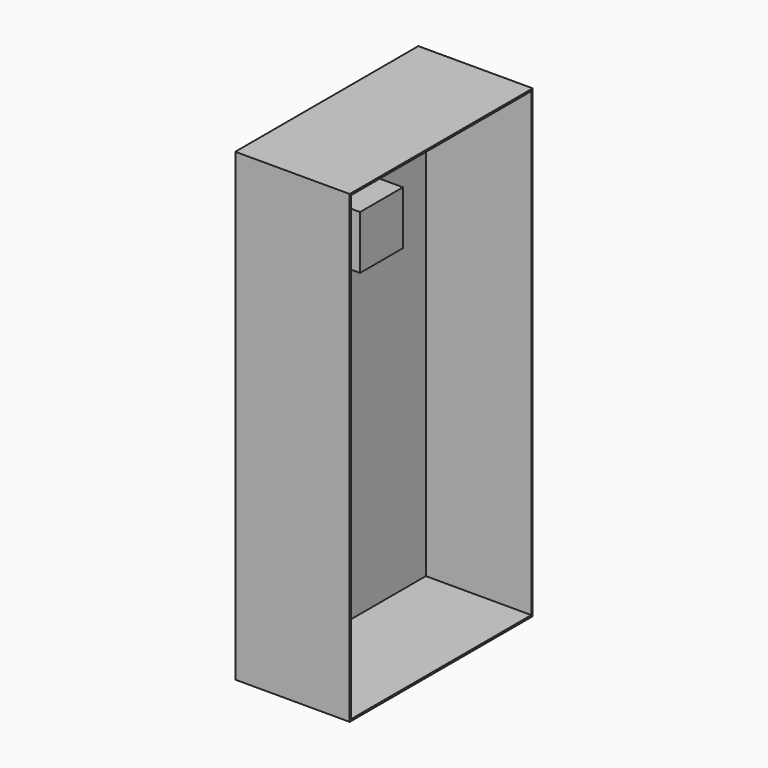
from build123d import *

# Parameters (mm, degrees)
F0_W     = 406.4
F0_H     = 812.8
F1_DEPTH = 1651
F2_T     = -6.35
F3_DEPTH = 25.4
F4_W     = 190.5
F4_H     = 190.5
F5_DEPTH = 304.8


with BuildPart() as f1:
    # F0 (on Top) → F1 (new body)
    with BuildSketch(Plane.XY):
        with Locations((203.2, 406.4)):
            Rectangle(F0_W, F0_H)
    extrude(amount=F1_DEPTH)

    # F2
    f2_openings = [f1.faces().sort_by_distance(p)[0] for p in [
        (406.4, 406.4, 825.5),
    ]]
    offset(amount=F2_T, openings=f2_openings)

    # F3 (add): a face of the model
    f3_faces = [f1.faces().sort_by_distance(p)[0] for p in [
        (6.35, 406.4, 825.5),
    ]]
    extrude(f3_faces, amount=F3_DEPTH)

    # F4 (on face) → F5 (join)
    with BuildSketch(Plane.YZ.offset(31.75)):
        with Locations((228.6, 1422.4)):
            Rectangle(F4_W, F4_H)
    extrude(amount=F5_DEPTH)


solid = f1.part
